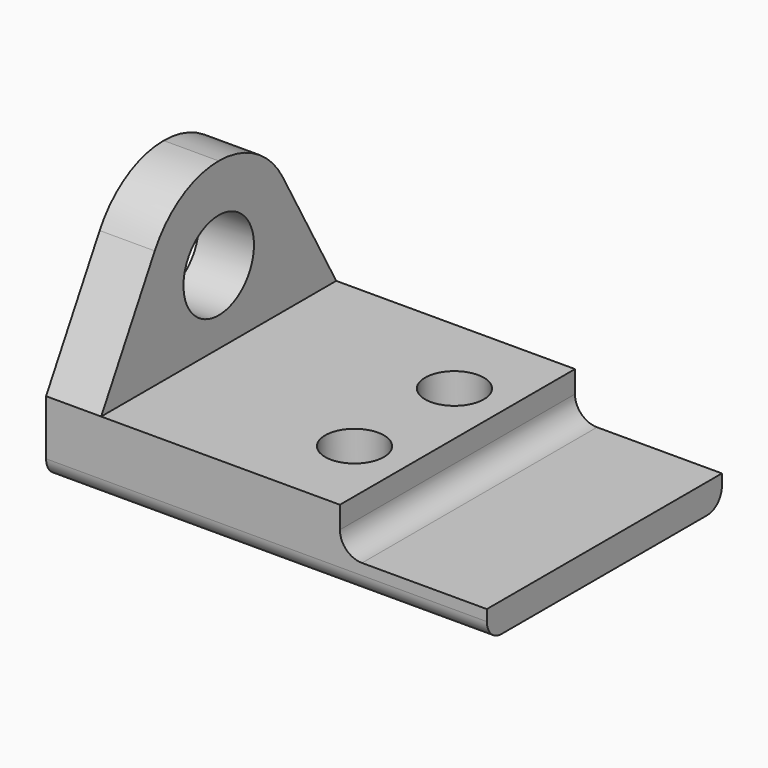
from build123d import *

# Parameters (mm, degrees)
F1_DEPTH  = 80
F2_R      = 12
F3_DEPTH  = 25
F5_R      = 20
F6_DEPTH  = 50
F7_R      = 6
F8_R      = 5
F9_R      = 8
F10_DEPTH = 20.001


with BuildPart() as f1:
    # F0 (on Front) → F1 (new body)
    with BuildSketch(Plane.XZ):
        Polygon((0, 65), (0, 0), (120, 0), (120, 8), (80, 8), (80, 20), (15, 20), (15, 65), align=None)
    extrude(amount=-F1_DEPTH)

    # F2 (on face) → F3 (cut)
    with BuildSketch(Plane.YZ.offset(15)):
        with BuildLine():
            Line((0, 65), (0, 20))
            Line((0, 20), (18.2297518911, 52.2904962177))
            ThreePointArc((18.2297518911, 52.2904962177), (27.3956833871, 61.5900718554), (40, 65))
            Line((40, 65), (0, 65))
        make_face()
        with BuildLine():
            Line((61.7702481089, 52.2904962177), (80, 20))
            Line((80, 20), (80, 65))
            Line((80, 65), (40, 65))
            ThreePointArc((40, 65), (52.6043166129, 61.5900718554), (61.7702481089, 52.2904962177))
        make_face()
        with Locations((40, 40)):
            Circle(F2_R)
    extrude(amount=-F3_DEPTH, mode=Mode.SUBTRACT)

    # F5 (on face) → F6 (cut, symmetric)
    with BuildSketch(Plane(origin=(0, 0, 0), x_dir=(0, 1, 0), z_dir=(0.7660444431, 0, -0.6427876097))):
        with Locations((41.4580069482, 0)):
            Circle(F5_R)
    extrude(amount=F6_DEPTH, both=True, mode=Mode.SUBTRACT)

    # F7
    f7_edges = [f1.edges().sort_by_distance(p)[0] for p in [
        (80, 40, 8),
    ]]
    fillet(f7_edges, radius=F7_R)

    # F8
    f8_edges = [f1.edges().sort_by_distance(p)[0] for p in [
        (60, 0, 0),
        (60, 80, 0),
    ]]
    fillet(f8_edges, radius=F8_R)

    # F9 (on face) → F10 (cut, through all)
    with BuildSketch(Plane.XY.offset(20)):
        with Locations((65.5771933797, 57)):
            Circle(F9_R)
        with Locations((65.5771933797, 23)):
            Circle(F9_R)
    extrude(amount=-F10_DEPTH, mode=Mode.SUBTRACT)


solid = f1.part
